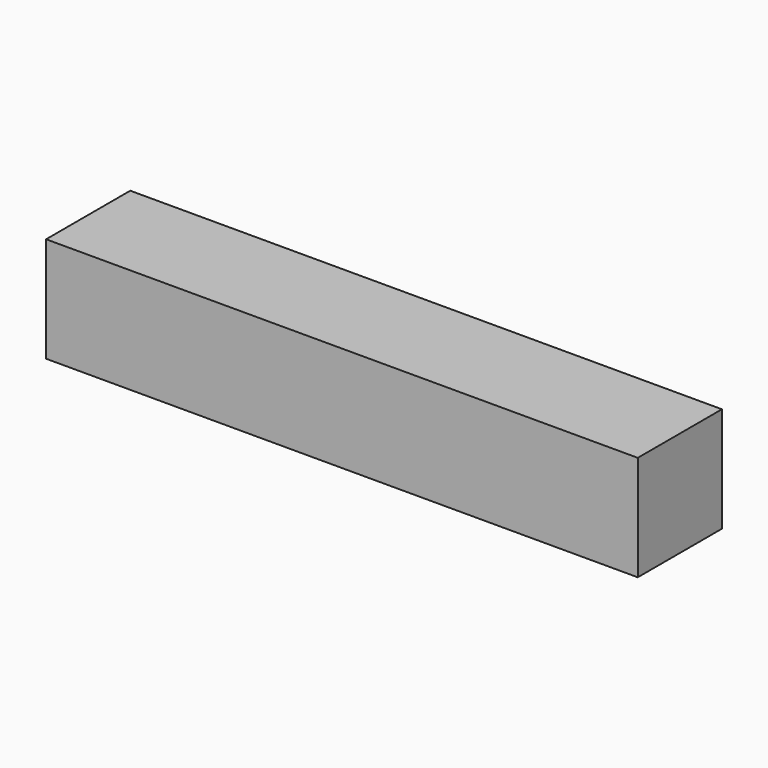
from build123d import *

# Parameters (mm, degrees)
F0_W     = 225
F0_H     = 40
F1_DEPTH = 40


with BuildPart() as f1:
    # F0 (on Front) → F1 (new body)
    with BuildSketch(Plane.XZ):
        with Locations((7e-06, -52.231295)):
            Rectangle(F0_W, F0_H)
    extrude(amount=F1_DEPTH)


solid = f1.part
